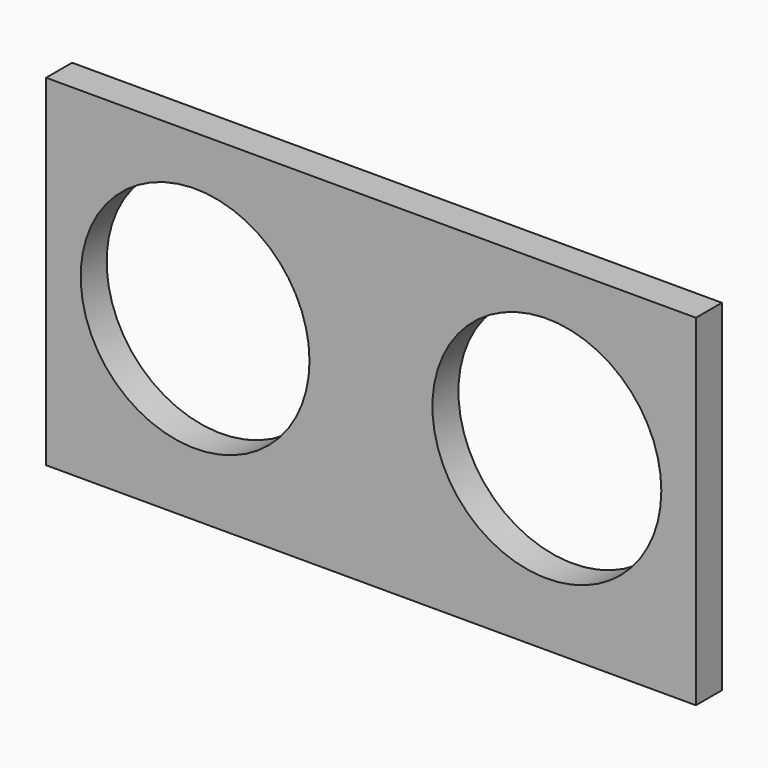
from build123d import *

# Parameters (mm, degrees)
F0_R     = 17.888087
F0_R_2   = 17.8943
F1_DEPTH = 5.08


with BuildPart() as f1:
    # F0 (on Front) → F1 (new body)
    with BuildSketch(Plane.XZ):
        Polygon((56.788196, 25.584594), (-44.811804, 25.584593), (-44.811804, -27.755406), (56.788196, -27.755406), align=None)
        with Locations((-21.516809, 0)):
            Circle(F0_R, mode=Mode.SUBTRACT)
        with Locations((33.483696, 0)):
            Circle(F0_R_2, mode=Mode.SUBTRACT)
    extrude(amount=F1_DEPTH)


solid = f1.part
